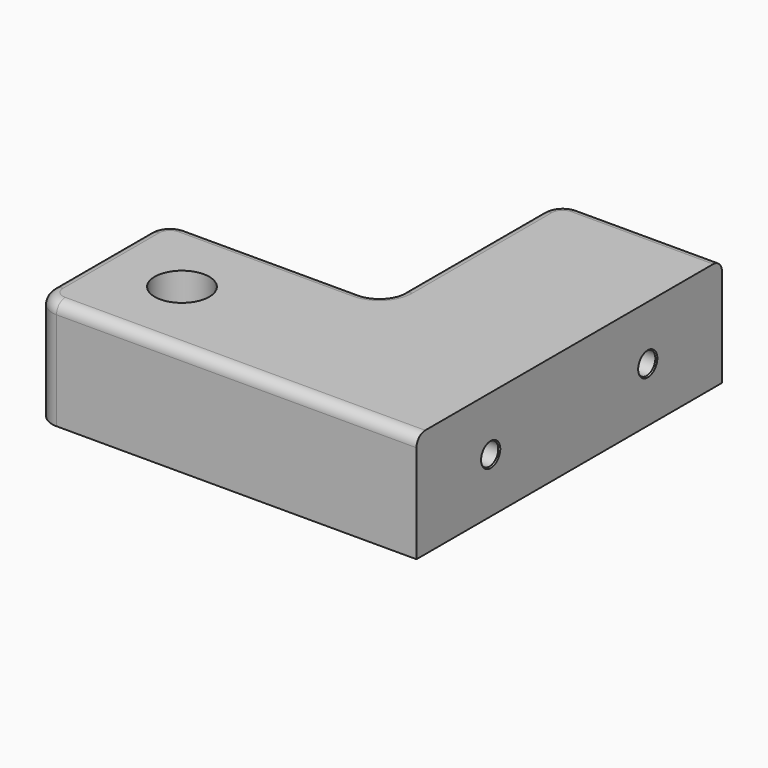
from build123d import *

# Parameters (mm, degrees)
F1_DEPTH       = 25.4
F2_R           = 6.35
F3_DEPTH       = 25.4
F4_R           = 5.08
F5_R           = 2.54
F7_D           = 5.1054
F7_DEPTH       = 25.4
F7_CSINK_D     = 5.588
F7_CSINK_ANGLE = 82
F7_TIP         = 1.5338169022


with BuildPart() as f1:
    # F0 (on Top) → F1 (new body)
    with BuildSketch(Plane.XY):
        Polygon((0, 50.8), (0, 0), (-50.8, 0), (-50.8, -38.1), (38.1, -38.1), (38.1, 50.8), align=None)
    extrude(amount=F1_DEPTH)

    # F2 (on face) → F3 (cut, through all)
    with BuildSketch(Plane.XY.offset(25.4)):
        with Locations((-31.75, -19.05)):
            Circle(F2_R)
    extrude(amount=-F3_DEPTH, mode=Mode.SUBTRACT)

    # F4
    f4_edges = [f1.edges().sort_by_distance(p)[0] for p in [
        (-50.8, -38.1, 12.7),
        (-50.8, 0, 12.7),
        (0, 0, 12.7),
        (0, 50.8, 12.7),
    ]]
    fillet(f4_edges, radius=F4_R)

    # F5
    f5_edges = [f1.edges().sort_by_distance(p)[0] for p in [
        (-3.81, -38.1, 25.4),
    ]]
    fillet(f5_edges, radius=F5_R)

    # F7
    with Locations(Plane.YZ.offset(38.1)):
        with Locations((29.21, 12.7), (-16.51, 12.7)):
            CounterSinkHole(F7_D / 2, F7_CSINK_D / 2, depth=F7_DEPTH, counter_sink_angle=F7_CSINK_ANGLE)
            with Locations((0, 0, -(F7_DEPTH + F7_TIP / 2))):  # 118° drill point
                Cone(0, F7_D / 2, F7_TIP, mode=Mode.SUBTRACT)


solid = f1.part
